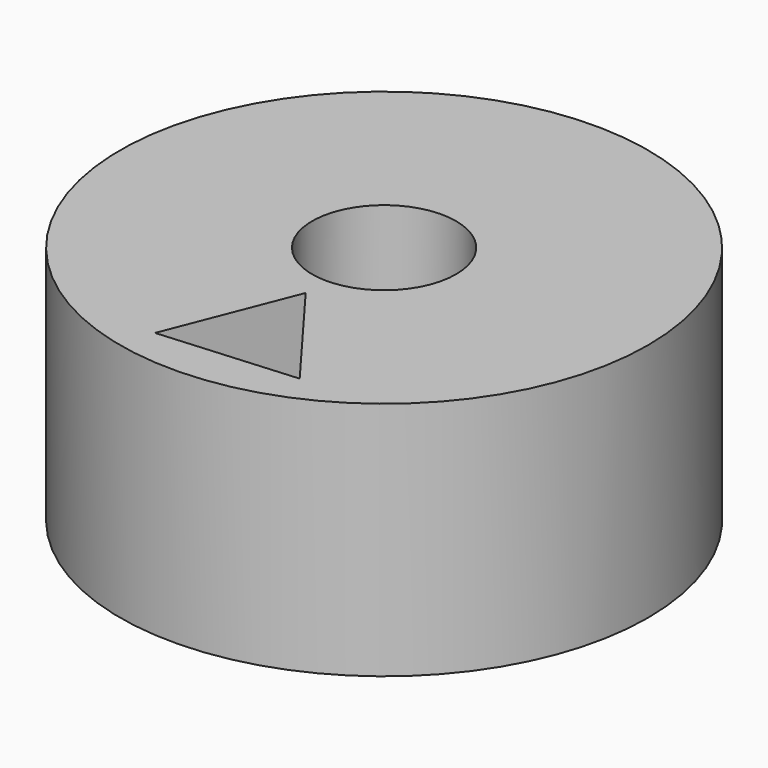
from build123d import *

# Parameters (mm, degrees)
F0_R     = 5.5
F0_R_2   = 1.5
F1_DEPTH = 5
F3_DEPTH = 5


with BuildPart() as f1:
    # F0 (on Top) → F1 (new body)
    with BuildSketch(Plane.XY):
        Circle(F0_R)
        Circle(F0_R_2, mode=Mode.SUBTRACT)
    extrude(amount=F1_DEPTH)

    # F2 (on face) → F3 (cut)
    with BuildSketch(Plane.XY.offset(5)):
        Polygon((1.809749, -4.461624), (0, -2.042668), (-1.033585, -4.673813), align=None)
    extrude(amount=-F3_DEPTH, mode=Mode.SUBTRACT)


solid = f1.part
